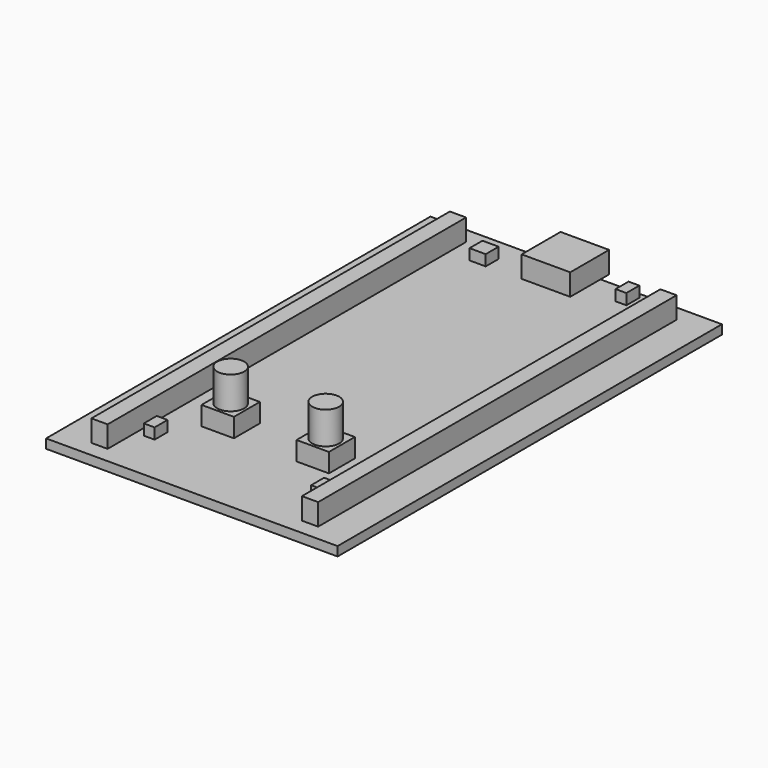
from build123d import *

# Parameters (mm, degrees)
F0_W      = 54
F0_H      = 89
F1_DEPTH  = 1.7
F2_W      = 3
F2_H      = 83
F3_DEPTH  = 4
F4_W      = 6
F4_H      = 6
F5_DEPTH  = 3.5
F7_R      = 2.5
F6_R      = 2.5
F8_DEPTH  = 6
F9_W      = 2
F9_H      = 3
F10_DEPTH = 2
F11_W     = 9
F11_H     = 7
F11_H_2   = 2
F12_DEPTH = 4
F13_W     = 3
F13_H     = 3
F13_W_2   = 2
F14_DEPTH = 2


with BuildPart() as f1:
    # F0 (on Top) → F1 (new body)
    with BuildSketch(Plane.XY):
        with Locations((27, 44.5)):
            Rectangle(F0_W, F0_H)
    extrude(amount=F1_DEPTH)

    # F2 (on face) → F3 (join)
    with BuildSketch(Plane.XY.offset(1.7)):
        with Locations((7.5, 44.5)):
            Rectangle(F2_W, F2_H)
        with Locations((46.5, 44.5)):
            Rectangle(F2_W, F2_H)
    extrude(amount=F3_DEPTH)

    # F4 (on face) → F5 (join)
    with BuildSketch(Plane.XY.offset(1.7)):
        with Locations((18.2, 20)):
            Rectangle(F4_W, F4_H)
        with Locations((35.8, 20)):
            Rectangle(F4_W, F4_H)
    extrude(amount=F5_DEPTH)

    # F7 (on face) + F6 (on face) → F8 (join)
    with BuildSketch(Plane.XY.offset(5.2)):
        with Locations((35.8, 20)):
            Circle(F7_R)
    with BuildSketch(Plane.XY.offset(5.2)):
        with Locations((18.2, 20)):
            Circle(F6_R)
    extrude(amount=F8_DEPTH)

    # F9 (on face) → F10 (join)
    with BuildSketch(Plane.XY.offset(1.7)):
        with Locations((42.5, 11)):
            Rectangle(F9_W, F9_H)
        with Locations((11.5, 11)):
            Rectangle(F9_W, F9_H)
    extrude(amount=F10_DEPTH)

    # F11 (on face) → F12 (join)
    with BuildSketch(Plane.XY.offset(1.7)):
        with Locations((27, 85.5)):
            Rectangle(F11_W, F11_H)
        with Locations((27, 90)):
            Rectangle(F11_W, F11_H_2)
    extrude(amount=F12_DEPTH)

    # F13 (on face) → F14 (join)
    with BuildSketch(Plane.XY.offset(1.7)):
        with Locations((14.5, 83.3)):
            Rectangle(F13_W, F13_H)
        with Locations((38.5, 86.5)):
            Rectangle(F13_W_2, F13_H)
    extrude(amount=F14_DEPTH)


solid = f1.part
